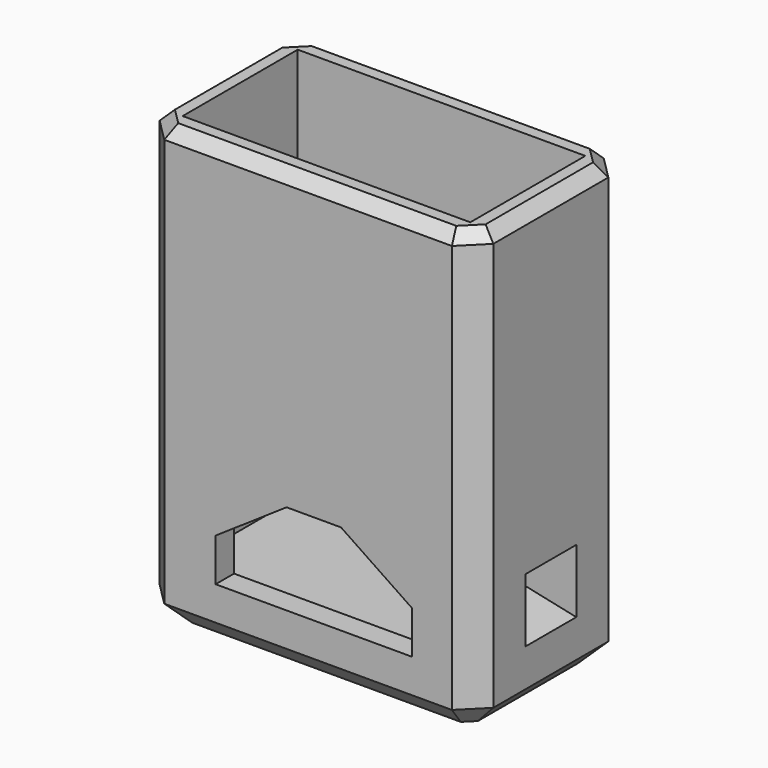
from build123d import *

# Parameters (mm, degrees)
F0_W      = 29
F0_H      = 16.5
F1_DEPTH  = 38.5
F2_T      = -2
F3_DEPTH  = 2.25
F4_SIZE   = 2
F5_SIZE   = 2
F6_SIZE   = 1
F8_DEPTH  = 16.501
F9_W      = 7.54
F9_H      = 7.25
F9_R      = 1.1
F10_DEPTH = 6.35
F11_W     = 5.538
F11_H     = 5.533
F13_W     = 5.538
F13_H     = 4.583


with BuildPart() as f1:
    # F0 (on Top) → F1 (new body)
    with BuildSketch(Plane.XY):
        with Locations((14.5, 8.25)):
            Rectangle(F0_W, F0_H)
    extrude(amount=F1_DEPTH)

    # F2
    f2_openings = [f1.faces().sort_by_distance(p)[0] for p in [
        (14.5, 8.25, 38.5),
    ]]
    offset(amount=F2_T, openings=f2_openings)

    # F3 (add): a face of the model
    f3_faces = [f1.faces().sort_by_distance(p)[0] for p in [
        (14.5, 8.25, 2),
    ]]
    extrude(f3_faces, amount=F3_DEPTH)

    # F4
    f4_edges = [f1.edges().sort_by_distance(p)[0] for p in [
        (29, 0, 19.25),
        (29, 16.5, 19.25),
        (0, 0, 19.25),
        (0, 16.5, 19.25),
    ]]
    chamfer(f4_edges, length=F4_SIZE)

    # F5
    f5_edges = [f1.edges().sort_by_distance(p)[0] for p in [
        (0, 8.25, 0),
        (1, 15.5, 0),
        (1, 1, 0),
        (14.5, 16.5, 0),
        (14.5, 0, 0),
        (28, 15.5, 0),
        (28, 1, 0),
        (29, 8.25, 0),
    ]]
    chamfer(f5_edges, length=F5_SIZE)

    # F6
    f6_edges = [f1.edges().sort_by_distance(p)[0] for p in [
        (0, 8.25, 38.5),
        (14.5, 0, 38.5),
        (14.5, 16.5, 38.5),
        (29, 8.25, 38.5),
        (1, 1, 38.5),
        (28, 15.5, 38.5),
        (1, 15.5, 38.5),
        (28, 1, 38.5),
    ]]
    chamfer(f6_edges, length=F6_SIZE)

    # F7 (on face) → F8 (cut, through all)
    with BuildSketch(Plane.XZ):
        Polygon((17.365, 12.834), (12.635, 12.834), (6.464, 8.664), (6.464, 4.94), (23.536, 4.94), (23.536, 8.664), align=None)
    extrude(amount=-F8_DEPTH, mode=Mode.SUBTRACT)

    # F9 (on face) → F10 (join)
    with BuildSketch(Plane.YZ.offset(29)):
        with Locations((8.25, 7.875)):
            Rectangle(F9_W, F9_H)
        with Locations((8.25, 9)):
            Circle(F9_R, mode=Mode.SUBTRACT)
    extrude(amount=-F10_DEPTH)

    # F11 (on face) → F14 section 0
    with BuildSketch(Plane.YZ.offset(29)):
        with Locations((8.25, 8.0385)):
            Rectangle(F11_W, F11_H)
    # F13 (on offset) → F14 section 1
    with BuildSketch(Plane.YZ.offset(24.55)):
        with Locations((8.25, 8.5135)):
            Rectangle(F13_W, F13_H)
    loft(mode=Mode.SUBTRACT)


solid = f1.part
